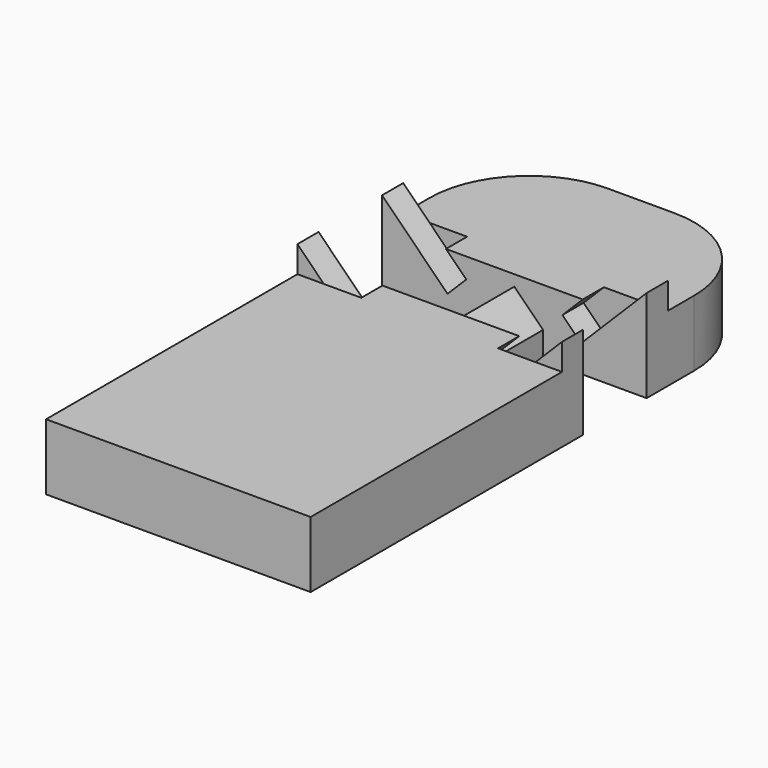
from build123d import *

# Parameters (mm, degrees)
PAD330_DEPTH         = 5
POCKET338_DEPTH      = 3
POCKET338_DEPTH_BACK = 3
SKETCH686_W          = 10
SKETCH686_H          = 2
POCKET342_DEPTH      = 5
POCKET342_DEPTH_BACK = 2
SKETCH674_W          = 10
SKETCH674_H          = 2
POCKET337_DEPTH      = 5
POCKET337_DEPTH_BACK = 2
POCKET337_FACE20_W   = 6
POCKET337_FACE20_H   = 5
POCKET344_DEPTH      = 5
POCKET344_FACE26_W   = 6
POCKET344_FACE26_H   = 5
POCKET349_DEPTH      = 5
PAD331_DEPTH         = 2
POCKET343_DEPTH      = 2
POCKET343_FACE66_W   = 6
POCKET343_FACE66_H   = 2.071068
POCKET352_DEPTH      = 5
POCKET352_FACE38_W   = 6
POCKET352_FACE38_H   = 2.071068
POCKET345_DEPTH      = 5


with BuildPart() as part:
    # Sketch675 → Pad330 (new body)
    with BuildSketch(Plane.XY):
        with BuildLine():
            Line((-10, -28.75), (10, -28.75))
            Line((10, -28.75), (10, 7.5))
            ThreePointArc((10, 7.5), (7.803301, 12.803301), (2.5, 15))
            Line((2.5, 15), (-2.5, 15))
            ThreePointArc((-2.5, 15), (-7.803301, 12.803301), (-10, 7.5))
            Line((-10, 7.5), (-10, -28.75))
        make_face()
    extrude(amount=PAD330_DEPTH)

    # Sketch666 → Pocket338 (cut, two sides)
    with BuildSketch(Plane.XZ) as pocket338_sk:
        Polygon((-10, 0), (-10, 5), (-8.585786, 6.414214), (-2.171573, 0), (-5, 0), align=None)
        Polygon((10, 0), (10, 5), (8.585786, 6.414214), (2.171573, 0), (5, 0), align=None)
    extrude(amount=-POCKET338_DEPTH, mode=Mode.SUBTRACT)
    extrude(pocket338_sk.sketch, amount=POCKET338_DEPTH_BACK, mode=Mode.SUBTRACT)

    # Sketch686 (on DatumPlane) → Pocket342 (cut, two sides)
    with BuildSketch(Plane(origin=(-7.171573, 3, 5), x_dir=(0, -1, 0), z_dir=(-0.707107, 0, 0.707107))) as pocket342_sk:
        with Locations((3, -1)):
            Rectangle(SKETCH686_W, SKETCH686_H)
    extrude(amount=-POCKET342_DEPTH, mode=Mode.SUBTRACT)
    extrude(pocket342_sk.sketch, amount=POCKET342_DEPTH_BACK, mode=Mode.SUBTRACT)

    # Sketch674 (on DatumPlane) → Pocket337 (cut, two sides)
    with BuildSketch(Plane(origin=(7.171573, 3, 5), x_dir=(0, 1, 0), z_dir=(0.707107, 0, 0.707107))) as pocket337_sk:
        with Locations((-3, -1)):
            Rectangle(SKETCH674_W, SKETCH674_H)
    extrude(amount=-POCKET337_DEPTH, mode=Mode.SUBTRACT)
    extrude(pocket337_sk.sketch, amount=POCKET337_DEPTH_BACK, mode=Mode.SUBTRACT)

    # Pocket337 Face20 → Pocket344 (cut)
    with BuildSketch(Plane(origin=(-5.403806, 0, 3.232233), x_dir=(0, 1, 0), z_dir=(-0.707107, 0, -0.707107))):
        Rectangle(POCKET337_FACE20_W, POCKET337_FACE20_H)
    extrude(amount=-POCKET344_DEPTH, mode=Mode.SUBTRACT)

    # Pocket344 Face26 → Pocket349 (cut)
    with BuildSketch(Plane(origin=(5.403806, 0, 3.232233), x_dir=(0, -1, 0), z_dir=(0.707107, 0, -0.707107))):
        Rectangle(POCKET344_FACE26_W, POCKET344_FACE26_H)
    extrude(amount=-POCKET349_DEPTH, mode=Mode.SUBTRACT)

    # Pocket349 Face4 → Pad331 (add)
    with BuildSketch(Plane(origin=(0, -8.372552, 0), x_dir=(0, -1, 0), z_dir=(0, 0, -1))):
        with BuildLine():
            Line((20.377448, 10), (-5.372552, 10))
            Line((-5.372552, 10), (-5.372552, 5))
            Line((-5.372552, 5), (-5.372552, 2.171573))
            Line((-5.372552, 2.171573), (-11.372552, 2.171573))
            Line((-11.372552, 2.171573), (-11.372552, 5))
            Line((-11.372552, 5), (-11.372552, 10))
            Line((-11.372552, 10), (-15.872552, 10))
            ThreePointArc((-15.872552, 10), (-21.175853, 7.803301), (-23.372552, 2.5))
            Line((-23.372552, 2.5), (-23.372552, -2.5))
            ThreePointArc((-23.372552, -2.5), (-21.175853, -7.803301), (-15.872552, -10))
            Line((-15.872552, -10), (-11.372552, -10))
            Line((-11.372552, -10), (-11.372552, -5))
            Line((-11.372552, -5), (-11.372552, -2.171573))
            Line((-11.372552, -2.171573), (-5.372552, -2.171573))
            Line((-5.372552, -2.171573), (-5.372552, -5))
            Line((-5.372552, -5), (-5.372552, -10))
            Line((-5.372552, -10), (20.377448, -10))
            Line((20.377448, -10), (20.377448, 10))
        make_face()
    extrude(amount=PAD331_DEPTH)

    # Pad331 Face5 → Pocket343 (cut)
    with BuildSketch(Plane(origin=(0, -8.9329, 5), x_dir=(0, 1, 0), z_dir=(0, 0, 1))):
        with BuildLine():
            Line((11.9329, 0.100505), (5.9329, 0.100505))
            Line((5.9329, 0.100505), (5.9329, 7.171573))
            Line((5.9329, 7.171573), (3.9329, 7.171573))
            Line((3.9329, 7.171573), (3.9329, 10))
            Line((3.9329, 10), (-19.8171, 10))
            Line((-19.8171, 10), (-19.8171, -10))
            Line((-19.8171, -10), (3.9329, -10))
            Line((3.9329, -10), (3.9329, -7.171573))
            Line((3.9329, -7.171573), (5.9329, -7.171573))
            Line((5.9329, -7.171573), (5.9329, -0.100505))
            Line((5.9329, -0.100505), (11.9329, -0.100505))
            Line((11.9329, -0.100505), (11.9329, -7.171573))
            Line((11.9329, -7.171573), (13.9329, -7.171573))
            Line((13.9329, -7.171573), (13.9329, -10))
            Line((13.9329, -10), (16.4329, -10))
            ThreePointArc((16.4329, -10), (21.736201, -7.803301), (23.9329, -2.5))
            Line((23.9329, -2.5), (23.9329, 2.5))
            ThreePointArc((23.9329, 2.5), (21.736201, 7.803301), (16.4329, 10))
            Line((16.4329, 10), (13.9329, 10))
            Line((13.9329, 10), (13.9329, 7.171573))
            Line((13.9329, 7.171573), (11.9329, 7.171573))
            Line((11.9329, 7.171573), (11.9329, 0.100505))
        make_face()
    extrude(amount=-POCKET343_DEPTH, mode=Mode.SUBTRACT)

    # Pocket343 Face66 → Pocket352 (cut)
    with BuildSketch(Plane(origin=(-2.903806, 0, 0.732233), x_dir=(0, 1, 0), z_dir=(-0.707107, 0, -0.707107))):
        Rectangle(POCKET343_FACE66_W, POCKET343_FACE66_H)
    extrude(amount=-POCKET352_DEPTH, mode=Mode.SUBTRACT)

    # Pocket352 Face38 → Pocket345 (cut)
    with BuildSketch(Plane(origin=(2.903806, 0, 0.732233), x_dir=(0, -1, 0), z_dir=(0.707107, 0, -0.707107))):
        Rectangle(POCKET352_FACE38_W, POCKET352_FACE38_H)
    extrude(amount=-POCKET345_DEPTH, mode=Mode.SUBTRACT)


with BuildPart() as part_1:
    # Body211 placement: moved
    add(part.part.moved(Location((0, 103.75, 2))))


solid = part_1.part
